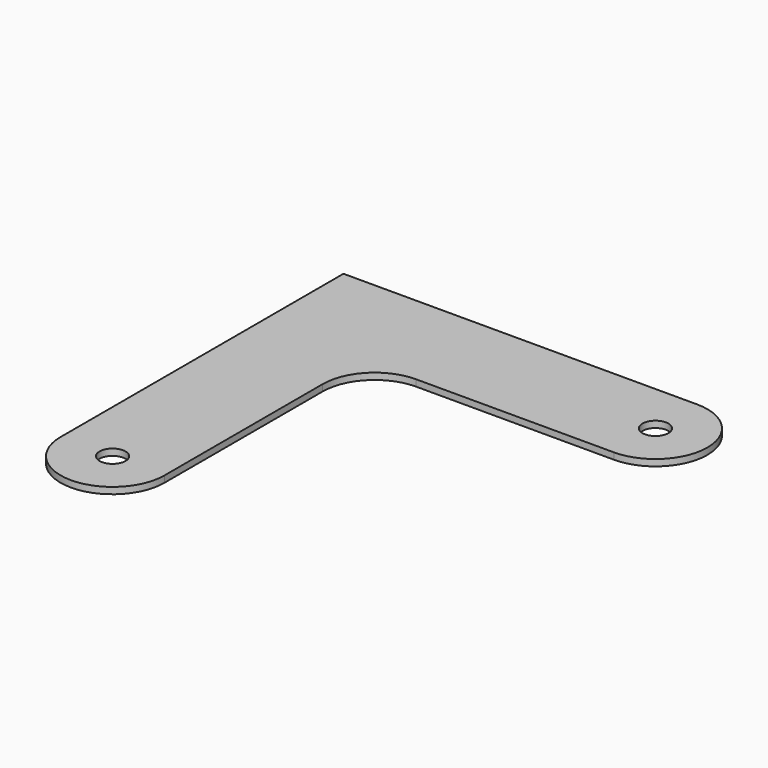
from build123d import *

# Parameters (mm, degrees)
F0_R     = 6.25
F1_DEPTH = 3.125


with BuildPart() as f1:
    # F0 (on Top) → F1 (new body)
    with BuildSketch(Plane.XY):
        with BuildLine():
            ThreePointArc((170.103074, -50), (195.103074, -25), (170.103074, 0))
            Line((170.103074, 0), (0, 0))
            Line((0, 0), (0, -170.103074))
            ThreePointArc((0, -170.103074), (25, -195.103074), (50, -170.103074))
            Line((50, -170.103074), (50, -75))
            ThreePointArc((50, -75), (57.32233, -57.32233), (75, -50))
            Line((75, -50), (170.103074, -50))
        make_face()
        with Locations((25, -170.103074)):
            Circle(F0_R, mode=Mode.SUBTRACT)
        with Locations((170.103074, -25)):
            Circle(F0_R, mode=Mode.SUBTRACT)
    extrude(amount=F1_DEPTH)


solid = f1.part
